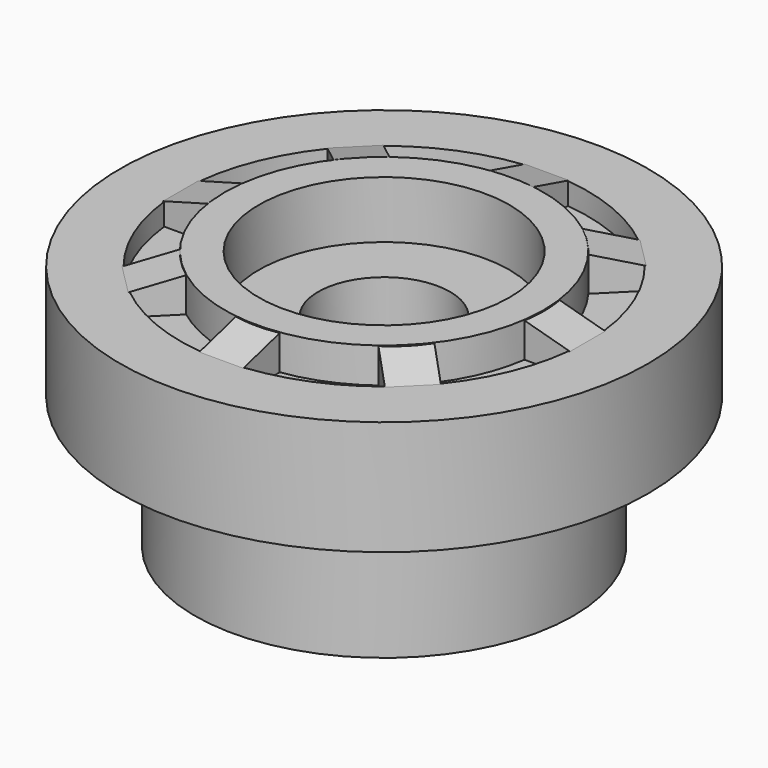
from build123d import *

# Parameters (mm, degrees)
PAD012_DEPTH          = 2.6
SKETCH030_R           = 3.625
SKETCH030_R_2         = 2.85
PAD013_DEPTH          = 2.9
SKETCH031_R           = 4.625
SKETCH031_R_2         = 3.625
POCKET017_DEPTH       = 0.5
PAD014_DEPTH          = 0.5
POLARPATTERN009_COUNT = 8
SKETCH033_R           = 2.85
POCKET018_DEPTH       = 1.3
SKETCH034_R           = 1.5
POCKET019_DEPTH       = 5
SKETCH035_R           = 0.75
POCKET020_DEPTH       = 5
POLARPATTERN010_COUNT = 4
SKETCH036_R           = 4.3
PAD015_DEPTH          = 3
POCKET021_DEPTH       = 5
POCKET021_DEPTH_BACK  = 0.5
POLARPATTERN011_COUNT = 25
FILLET002_R           = 1
SKETCH038_R           = 25
SKETCH038_R_2         = 6
POCKET022_DEPTH       = 5


with BuildPart() as part:
    # Sketch029 → Pad012 (new body)
    with BuildSketch(Plane.XY):
        with BuildLine():
            ThreePointArc((3.1440666838, 19.7956884151), (0, 22.4), (-3.1440666838, 19.7956884151))
            Line((-3.1440666838, 19.7956884151), (-5, 10))
            Line((-5, 10), (-5, 5))
            Line((-5, 5), (-10, 5))
            Line((-10, 5), (-19.7956884151, 3.1440666838))
            ThreePointArc((-19.7956884151, 3.1440666838), (-22.4, 0), (-19.7956884151, -3.1440666838))
            Line((-10, -5), (-19.7956884151, -3.1440666838))
            Line((-5, -5), (-10, -5))
            Line((-5, -10), (-5, -5))
            Line((-3.1440666838, -19.7956884151), (-5, -10))
            ThreePointArc((-3.1440666838, -19.7956884151), (0, -22.4), (3.1440666838, -19.7956884151))
            Line((3.1440666838, -19.7956884151), (5, -10))
            Line((5, -10), (5, -5))
            Line((5, -5), (10, -5))
            Line((10, -5), (19.7956884151, -3.1440666838))
            ThreePointArc((19.7956884151, -3.1440666838), (22.4, 0), (19.7956884151, 3.1440666838))
            Line((10, 5), (19.7956884151, 3.1440666838))
            Line((5, 5), (10, 5))
            Line((5, 10), (5, 5))
            Line((3.1440666838, 19.7956884151), (5, 10))
        make_face()
    extrude(amount=PAD012_DEPTH)

    # Sketch030 → Pad013 (join)
    with BuildSketch(Plane.XY):
        Circle(SKETCH030_R)
        Circle(SKETCH030_R_2, mode=Mode.SUBTRACT)
    extrude(amount=PAD013_DEPTH)

    # Sketch031 (on Face5 of Pad013) → Pocket017 (cut)
    with BuildSketch(Plane.XY.offset(2.6)):
        Circle(SKETCH031_R)
        Circle(SKETCH031_R_2, mode=Mode.SUBTRACT)
    extrude(amount=-POCKET017_DEPTH, mode=Mode.SUBTRACT)

    # Sketch032 → Pad014 (join, symmetric)
    with BuildSketch(Plane.XZ):
        Polygon((3.537661, 2.9), (4.625, 2.6), (4.625, 2.1), (3.537661, 2.1), align=None)
    pad014 = extrude(amount=PAD014_DEPTH, both=True)

    # PolarPattern009: Pad014 ×8 about axis
    polarpattern009_axis = Axis((0, 0, 0), (0, 0, 1))
    for i in range(1, POLARPATTERN009_COUNT):
        add(pad014.rotate(polarpattern009_axis, i * 360 / POLARPATTERN009_COUNT))

    # Sketch033 (on Face74 of PolarPattern009) → Pocket018 (cut)
    with BuildSketch(Plane.XY.offset(2.9)):
        Circle(SKETCH033_R)
    extrude(amount=-POCKET018_DEPTH, mode=Mode.SUBTRACT)

    # Sketch034 (on Face66 of Pocket018) → Pocket019 (cut)
    with BuildSketch(Plane.XY.offset(1.6)):
        Circle(SKETCH034_R)
    extrude(amount=-POCKET019_DEPTH, mode=Mode.SUBTRACT)

    # Sketch035 → Pocket020 (cut)
    with BuildSketch(Plane.XY):
        with Locations((8.8, 0)):
            Circle(SKETCH035_R)
        with Locations((12.17411, 0)):
            Circle(SKETCH035_R)
        with Locations((15.54822, 0)):
            Circle(SKETCH035_R)
        with Locations((18.92233, 0)):
            Circle(SKETCH035_R)
    pocket020 = extrude(amount=POCKET020_DEPTH, mode=Mode.SUBTRACT)

    # PolarPattern010: Pocket020 ×4 about axis
    polarpattern010_axis = Axis((0, 0, 0), (0, 0, 1))
    for i in range(1, POLARPATTERN010_COUNT):
        add(pocket020.rotate(polarpattern010_axis, i * 360 / POLARPATTERN010_COUNT), mode=Mode.SUBTRACT)

    # Sketch036 → Pad015 (join)
    with BuildSketch(Plane.XY):
        Circle(SKETCH036_R)
    extrude(amount=-PAD015_DEPTH)

    # Sketch037 → Pocket021 (cut, two sides)
    with BuildSketch(Plane.XY) as pocket021_sk:
        with BuildLine():
            ThreePointArc((2.9950699672, 0.1719182704), (2.9874502188, 0.2741189345), (2.9763441039, 0.3759997007))
            Line((0, 0), (2.9763441039, 0.3759997007))
            Line((0, 0), (2.9763441039, -0.3759997007))
            ThreePointArc((2.9763441039, -0.3759997007), (2.9874502188, -0.2741189345), (2.9950699672, -0.1719182704))
            Line((2.703959, 0), (2.9950699672, -0.1719182704))
            Line((2.9950699672, 0.1719182704), (2.703959, 0))
        make_face()
    pocket021 = extrude(amount=-POCKET021_DEPTH, mode=Mode.SUBTRACT) + extrude(pocket021_sk.sketch, amount=POCKET021_DEPTH_BACK, mode=Mode.SUBTRACT)

    # PolarPattern011: Pocket021 ×25 about axis
    polarpattern011_axis = Axis((0, 0, 0), (0, 0, 1))
    for i in range(1, POLARPATTERN011_COUNT):
        add(pocket021.rotate(polarpattern011_axis, i * 360 / POLARPATTERN011_COUNT), mode=Mode.SUBTRACT)

    # Fillet002
    fillet002_edges = [part.edges().sort_by_distance(p)[0] for p in [
        (-5, -5, 1.3),
        (5, -5, 1.3),
        (5, 5, 1.3),
        (-5, 5, 1.3),
    ]]
    fillet(fillet002_edges, radius=FILLET002_R)

    # Sketch038 → Pocket022 (cut, symmetric)
    with BuildSketch(Plane.XY):
        Circle(SKETCH038_R)
        Circle(SKETCH038_R_2, mode=Mode.SUBTRACT)
    extrude(amount=POCKET022_DEPTH, both=True, mode=Mode.SUBTRACT)


solid = part.part
